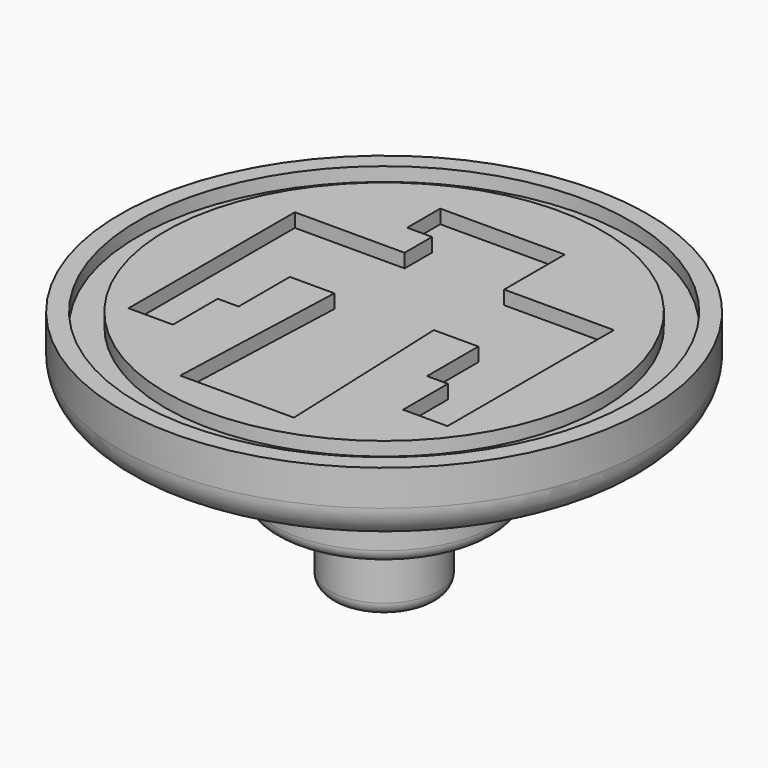
from build123d import *

# Parameters (mm, degrees)
F0_R     = 9.5631
F1_DEPTH = 2.5
F2_R     = 8.9162314004
F2_R_2   = 7.9162314004
F3_DEPTH = 0.5
F4_R     = 4
F5_DEPTH = 3.5
F6_R     = 1.2071067812
F7_R     = 1.975
F8_DEPTH = 2.75
F9_R     = 0.4828427125
F10_R    = 0.4587005769


with BuildPart() as f1:
    # F0 (on Top) → F1 (new body)
    with BuildSketch(Plane.XY):
        Circle(F0_R)
    extrude(amount=F1_DEPTH)

    # F2 (on face) → F3 (cut)
    with BuildSketch(Plane.XY.offset(2.5)):
        Circle(F2_R)
        Circle(F2_R_2, mode=Mode.SUBTRACT)
        Polygon((1.8036346717, 5.9258921407), (-2.7067440096, 5.9258921407), (-2.7067440096, 4.4258921407), (-1.8036346717, 4.4258921407), (-1.8036346717, 3.1822535675), (-5.7792644948, 3.1822535675), (-5.7792644948, -4.3527372181), (-4.1694175287, -4.3527372181), (-4.1694175287, -2.3218090646), (-3.4134816378, -2.3218090646), (-3.4134816378, 0), (-1.8036346717, 0), (-2.0609125495, -6.6612055525), (0, -6.6612055525), (2.0609125495, -6.6612055525), (1.8036346717, 0), (3.4134816378, 0), (3.4134816378, -2.3218090646), (4.1694175287, -2.3218090646), (4.1694175287, -4.3527372181), (5.7792644948, -4.3527372181), (5.7792644948, 3.1822535675), (1.8036346717, 3.1822535675), align=None)
    extrude(amount=-F3_DEPTH, mode=Mode.SUBTRACT)

    # F4 (on face) → F5 (join)
    with BuildSketch(Plane(origin=(0, 0, 0), x_dir=(1, 0, 0), z_dir=(0, 0, -1))):
        Circle(F4_R)
    extrude(amount=F5_DEPTH)

    # F6
    f6_edges = [f1.edges().sort_by_distance(p)[0] for p in [
        (-9.5631, 0, 0),
    ]]
    fillet(f6_edges, radius=F6_R)

    # F7 (on face) → F8 (join)
    with BuildSketch(Plane(origin=(0, 0, -3.5), x_dir=(1, 0, 0), z_dir=(0, 0, -1))):
        Circle(F7_R)
    extrude(amount=F8_DEPTH)

    # F9
    f9_edges = [f1.edges().sort_by_distance(p)[0] for p in [
        (-1.975, 0, -6.25),
    ]]
    fillet(f9_edges, radius=F9_R)

    # F10
    f10_edges = [f1.edges().sort_by_distance(p)[0] for p in [
        (-4, 0, -3.5),
    ]]
    fillet(f10_edges, radius=F10_R)


solid = f1.part
